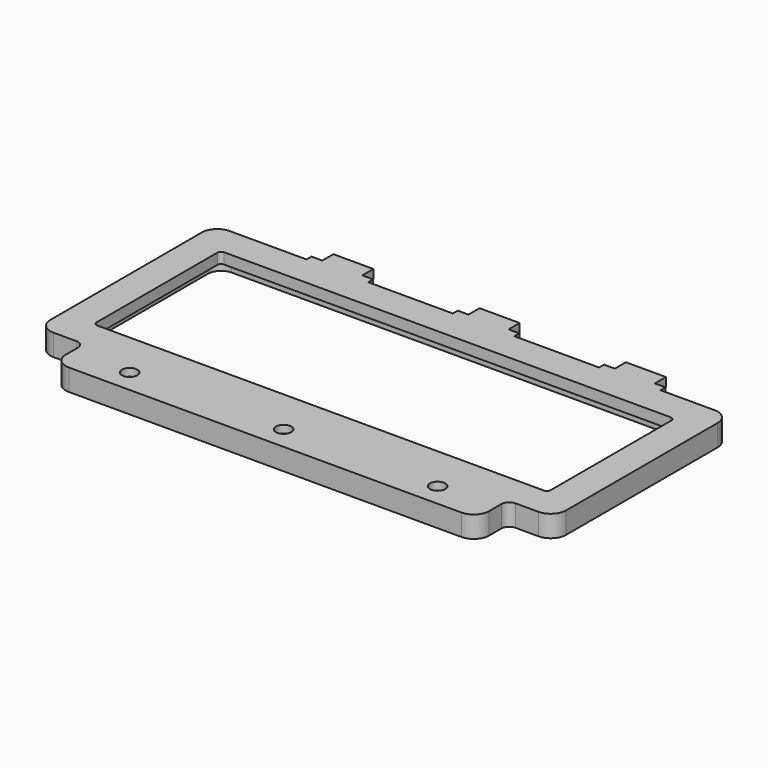
from build123d import *

# Parameters (mm, degrees)
F1_DEPTH  = 14
F3_DEPTH  = 7
F4_R      = 10
F5_R      = 5
F6_R      = 2.6
F7_DEPTH  = 14.001
F8_R      = 5
F9_DEPTH  = 5
F10_W     = 26
F10_H     = 6
F11_DEPTH = 13
F12_W     = 40
F12_H     = 4
F13_DEPTH = 6


with BuildPart() as f1:
    # F0 (on Top) → F1 (new body)
    with BuildSketch(Plane.XY):
        Polygon((137.5, -71.5), (167.5, -71.5), (167.5, 71.5), (-167.5, 71.5), (-167.5, -71.5), (-137.5, -71.5), (-137.5, -96.5), (137.5, -96.5), align=None)
        with BuildLine():
            ThreePointArc((147.5, -49), (146.767767, -50.767767), (145, -51.5))
            Line((145, -51.5), (-145, -51.5))
            ThreePointArc((-145, -51.5), (-146.767767, -50.767767), (-147.5, -49))
            Line((-147.5, -49), (-147.5, 49))
            ThreePointArc((-147.5, 49), (-146.767767, 50.767767), (-145, 51.5))
            Line((-145, 51.5), (145, 51.5))
            ThreePointArc((145, 51.5), (146.767767, 50.767767), (147.5, 49))
            Line((147.5, 49), (147.5, -49))
        make_face(mode=Mode.SUBTRACT)
    extrude(amount=F1_DEPTH)

    # F2 (on face) → F3 (cut)
    with BuildSketch(Plane(origin=(0, 0, 0), x_dir=(1, 0, 0), z_dir=(0, 0, -1))):
        with BuildLine():
            Line((-145, -57.5), (145, -57.5))
            ThreePointArc((145, -57.5), (151.010408, -55.010408), (153.5, -49))
            Line((153.5, -49), (153.5, 49))
            ThreePointArc((153.5, 49), (151.010408, 55.010408), (145, 57.5))
            Line((145, 57.5), (-145, 57.5))
            ThreePointArc((-145, 57.5), (-151.010408, 55.010408), (-153.5, 49))
            Line((-153.5, 49), (-153.5, -49))
            ThreePointArc((-153.5, -49), (-151.010408, -55.010408), (-145, -57.5))
        make_face()
        with BuildLine():
            Line((147.5, 49), (147.5, -49))
            ThreePointArc((147.5, -49), (146.767767, -50.767767), (145, -51.5))
            Line((145, -51.5), (-145, -51.5))
            ThreePointArc((-145, -51.5), (-146.767767, -50.767767), (-147.5, -49))
            Line((-147.5, -49), (-147.5, 49))
            ThreePointArc((-147.5, 49), (-146.767767, 50.767767), (-145, 51.5))
            Line((-145, 51.5), (145, 51.5))
            ThreePointArc((145, 51.5), (146.767767, 50.767767), (147.5, 49))
        make_face(mode=Mode.SUBTRACT)
    extrude(amount=-F3_DEPTH, mode=Mode.SUBTRACT)

    # F4
    f4_edges = [f1.edges().sort_by_distance(p)[0] for p in [
        (-167.5, -71.5, 7),
        (167.5, -71.5, 7),
        (137.5, -96.5, 7),
        (-137.5, -96.5, 7),
        (167.5, 71.5, 7),
        (-167.5, 71.5, 7),
    ]]
    fillet(f4_edges, radius=F4_R)

    # F5
    f5_edges = [f1.edges().sort_by_distance(p)[0] for p in [
        (137.5, -71.5, 7),
        (-137.5, -71.5, 7),
    ]]
    fillet(f5_edges, radius=F5_R)

    # F6 (on face) → F7 (cut, through all)
    with BuildSketch(Plane.XY.offset(14)):
        with Locations((0, -81.5)):
            Circle(F6_R)
        with Locations((-100, -81.5)):
            Circle(F6_R)
        with Locations((100, -81.5)):
            Circle(F6_R)
    extrude(amount=-F7_DEPTH, mode=Mode.SUBTRACT)

    # F8 (on face) → F9 (cut)
    with BuildSketch(Plane.XY.offset(14)):
        with Locations((-100, -81.5)):
            Circle(F8_R)
        with Locations((0, -81.5)):
            Circle(F8_R)
        with Locations((100, -81.5)):
            Circle(F8_R)
    extrude(amount=-F9_DEPTH, mode=Mode.SUBTRACT)

    # F10 (on face) → F11 (join)
    with BuildSketch(Plane(origin=(0, 71.5, 0), x_dir=(-1, 0, 0), z_dir=(0, 1, 0))):
        with Locations((-102.5, 11)):
            Rectangle(F10_W, F10_H)
        with Locations((-7.5, 11)):
            Rectangle(F10_W, F10_H)
        with Locations((87.5, 11)):
            Rectangle(F10_W, F10_H)
    extrude(amount=F11_DEPTH)

    # F12 (on face) → F13 (join)
    with BuildSketch(Plane.XY.offset(14)):
        with Locations((-87.5, 73.5)):
            Rectangle(F12_W, F12_H)
        with Locations((7.5, 73.5)):
            Rectangle(F12_W, F12_H)
        with Locations((102.5, 73.5)):
            Rectangle(F12_W, F12_H)
    extrude(amount=-F13_DEPTH)


solid = f1.part
